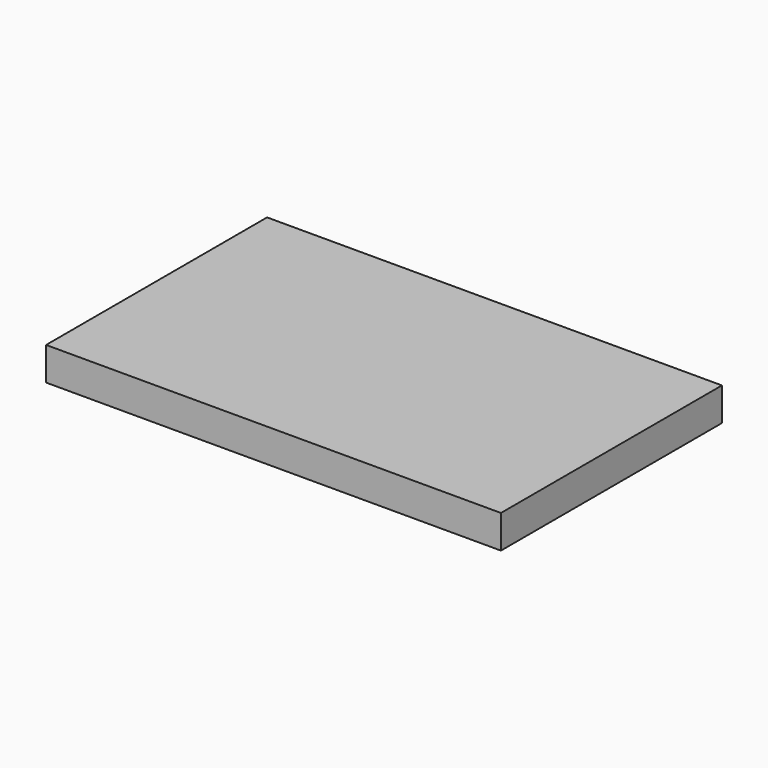
from build123d import *

# Parameters (mm, degrees)
SKETCH_W  = 247
SKETCH_H  = 150
PAD_DEPTH = 18


with BuildPart() as part:
    # Sketch → Pad (new body)
    with BuildSketch(Plane.XY):
        with Locations((-123.5, 75)):
            Rectangle(SKETCH_W, SKETCH_H)
    extrude(amount=PAD_DEPTH)


solid = part.part
